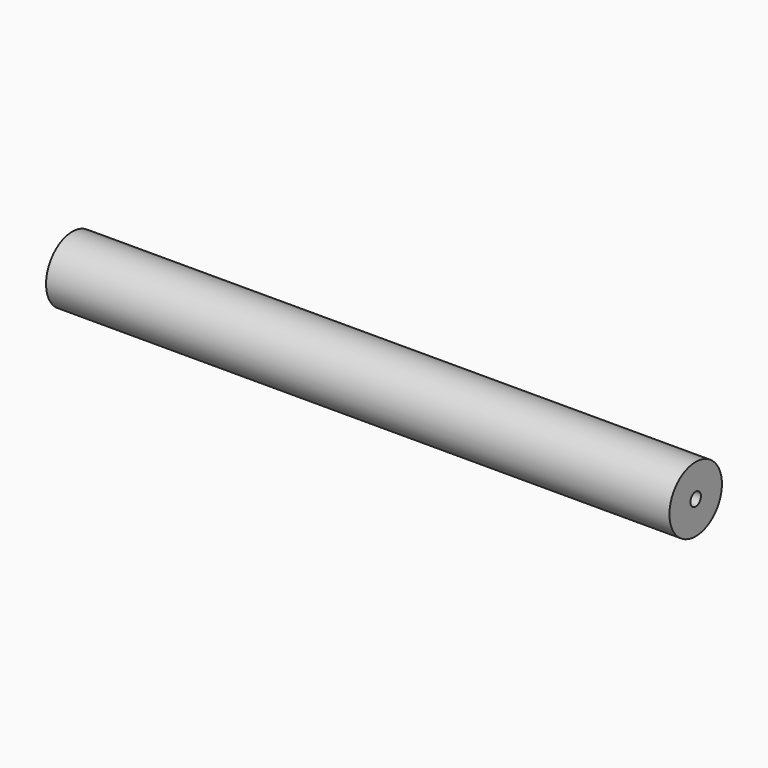
from build123d import *

# Parameters (mm, degrees)
F0_R     = 12.7
F1_DEPTH = 241.3
F2_R     = 2.5527
F3_DEPTH = 15.24
F4_R     = 2.5527
F5_DEPTH = 15.24


with BuildPart() as f1:
    # F0 (on Right) → F1 (new body)
    with BuildSketch(Plane.YZ):
        Circle(F0_R)
    extrude(amount=F1_DEPTH)

    # F2 (on face) + F0 (on Right) → F3 (cut)
    with BuildSketch(Plane(origin=(0, 0, 0), x_dir=(0, -1, 0), z_dir=(-1, 0, 0))):
        Circle(F2_R)
    with BuildSketch(Plane.YZ):
        Circle(F0_R)
    extrude(amount=-F3_DEPTH, mode=Mode.SUBTRACT)

    # F4 (on face) → F5 (cut)
    with BuildSketch(Plane.YZ.offset(241.3)):
        Circle(F4_R)
    extrude(amount=-F5_DEPTH, mode=Mode.SUBTRACT)


solid = f1.part
